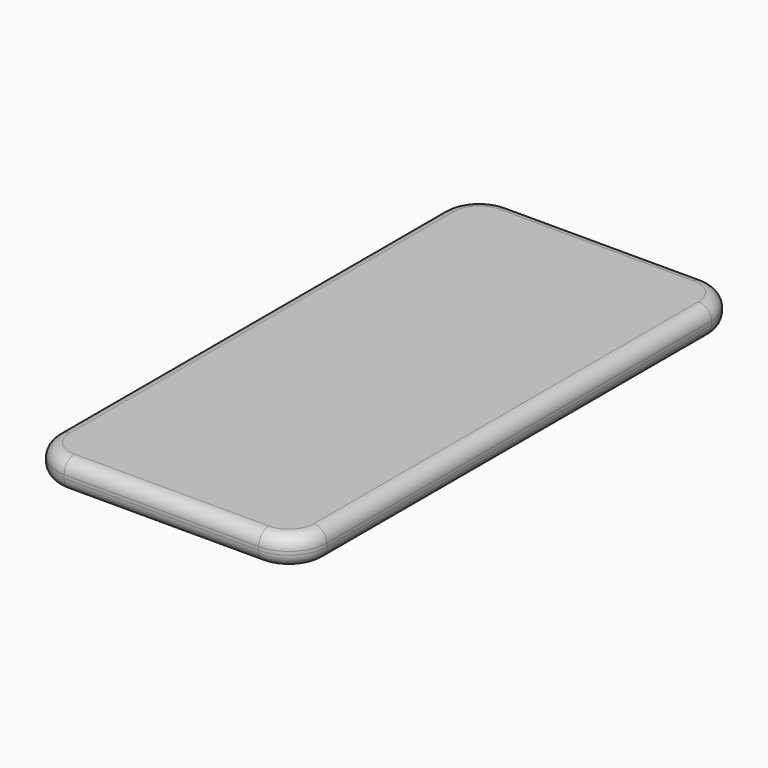
from build123d import *

# Parameters (mm, degrees)
F0_W     = 67.18
F0_H     = 138.35
F1_DEPTH = 7.2
F2_R     = 9.4
F3_R     = 3.2
F4_R     = 3.6
F5_DEPTH = 0.76
F6_SIZE  = 0.33


with BuildPart() as f1:
    # F0 (on Top) → F1 (new body)
    with BuildSketch(Plane.XY):
        Rectangle(F0_W, F0_H)
    extrude(amount=F1_DEPTH)

    # F2
    f2_edges = [f1.edges().sort_by_distance(p)[0] for p in [
        (33.59, 69.175, 3.6),
        (-33.59, 69.175, 3.6),
        (-33.59, -69.175, 3.6),
        (33.59, -69.175, 3.6),
    ]]
    fillet(f2_edges, radius=F2_R)

    # F3
    f3_edges = [f1.edges().sort_by_distance(p)[0] for p in [
        (33.59, 0, 0),
        (33.59, 0, 7.2),
    ]]
    fillet(f3_edges, radius=F3_R)

    # F4 (on face) → F5 (join)
    with BuildSketch(Plane(origin=(0, 0, 0), x_dir=(1, 0, 0), z_dir=(0, 0, -1))):
        with Locations((20.27, -62.235)):
            Circle(F4_R)
    extrude(amount=F5_DEPTH)

    # F6
    f6_edges = [f1.edges().sort_by_distance(p)[0] for p in [
        (16.67, 62.235, -0.76),
    ]]
    chamfer(f6_edges, length=F6_SIZE)


solid = f1.part
